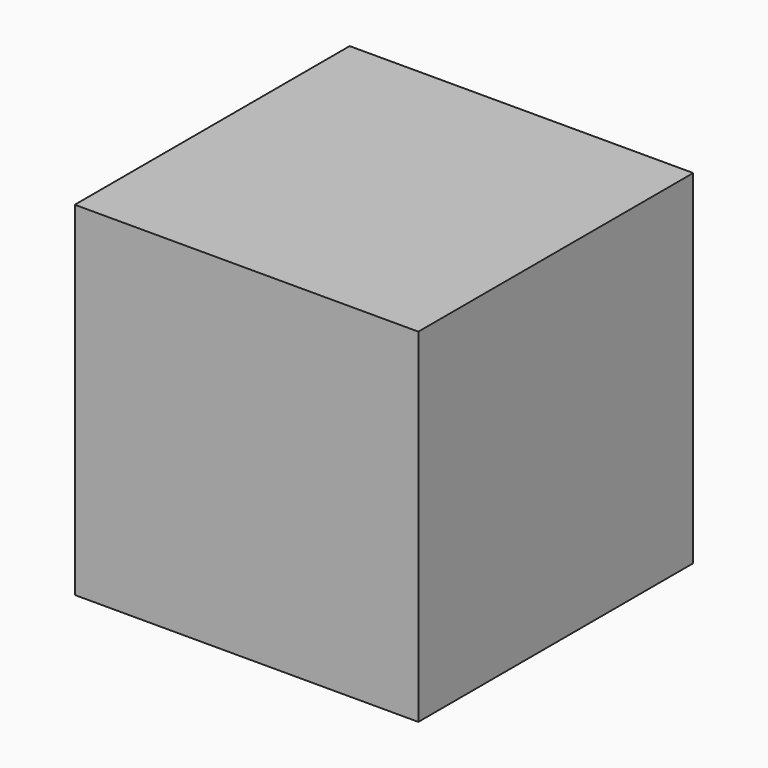
from build123d import *

# Parameters (mm, degrees)
CYLINDER_R     = 100
CYLINDER_DEPTH = 50
BOX001_W       = 450
BOX001_H       = 450
BOX001_DEPTH   = 450
BOX_W          = 500
BOX_H          = 500
BOX_DEPTH      = 500


with BuildPart() as cylinder:
    # Cylinder → Cylinder (new body)
    with BuildSketch(Plane(origin=(250, 250, -10), x_dir=(1, 0, 0), z_dir=(0, 0, 1))):
        Circle(CYLINDER_R)
    extrude(amount=CYLINDER_DEPTH)


with BuildPart() as cube001:
    # Box001 → Box001 (new body)
    with BuildSketch(Plane(origin=(25, 25, 25), x_dir=(1, 0, 0), z_dir=(0, 0, 1))):
        with Locations((225, 225)):
            Rectangle(BOX001_W, BOX001_H)
    extrude(amount=BOX001_DEPTH)


with BuildPart() as vacuumchamber:
    # Box → Box (new body)
    with BuildSketch(Plane.XY):
        with Locations((250, 250)):
            Rectangle(BOX_W, BOX_H)
    extrude(amount=BOX_DEPTH)

    # Cut: cut Cube001
    add(cube001.part, mode=Mode.SUBTRACT)

    # Cut001: cut Cylinder
    add(cylinder.part, mode=Mode.SUBTRACT)


with BuildPart() as vacuumchamber_1:
    # Cut001 placement: moved
    add(vacuumchamber.part.moved(Location((-250, -1000, 1600))))


solid = vacuumchamber_1.part
